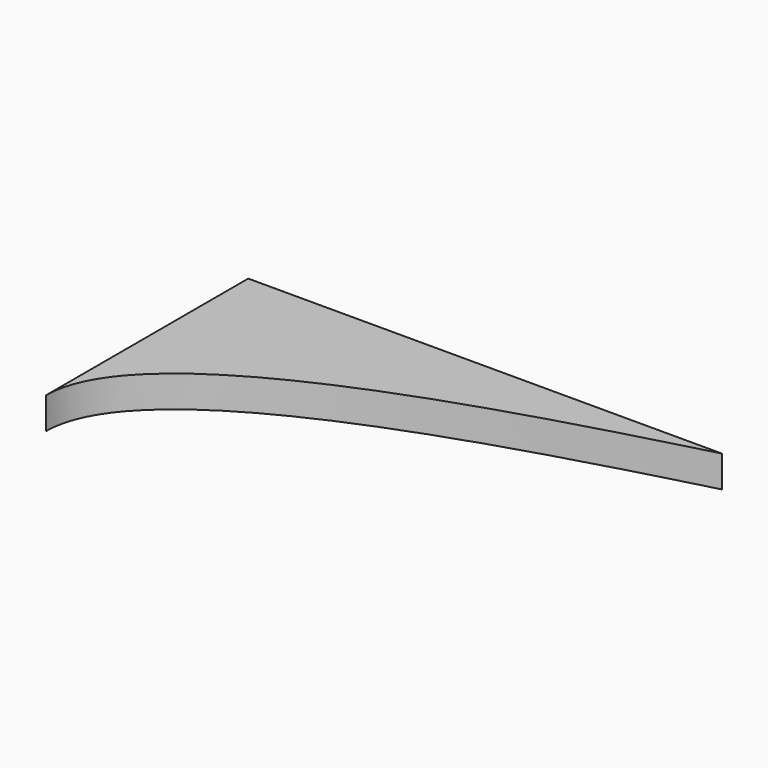
from build123d import *

# Parameters (mm, degrees)
F1_DEPTH = 25.4


with BuildPart() as f1:
    # F0 (on Top) → F1 (new body)
    with BuildSketch(Plane.XY):
        with BuildLine():
            Line((201.280185, 100.179812), (-179.719815, 100.179812))
            Line((-179.719815, 100.179812), (-179.719815, -103.020188))
            add(Edge.make_bspline(
                [(-179.719815, -103.020188), (-179.719815, -1.420188), (58.654949, 62.545322), (201.280185, 100.179812)],
                knots=[0, 0, 0, 0, 431.8, 431.8, 431.8, 431.8], degree=3))
        make_face()
    extrude(amount=F1_DEPTH)


solid = f1.part
